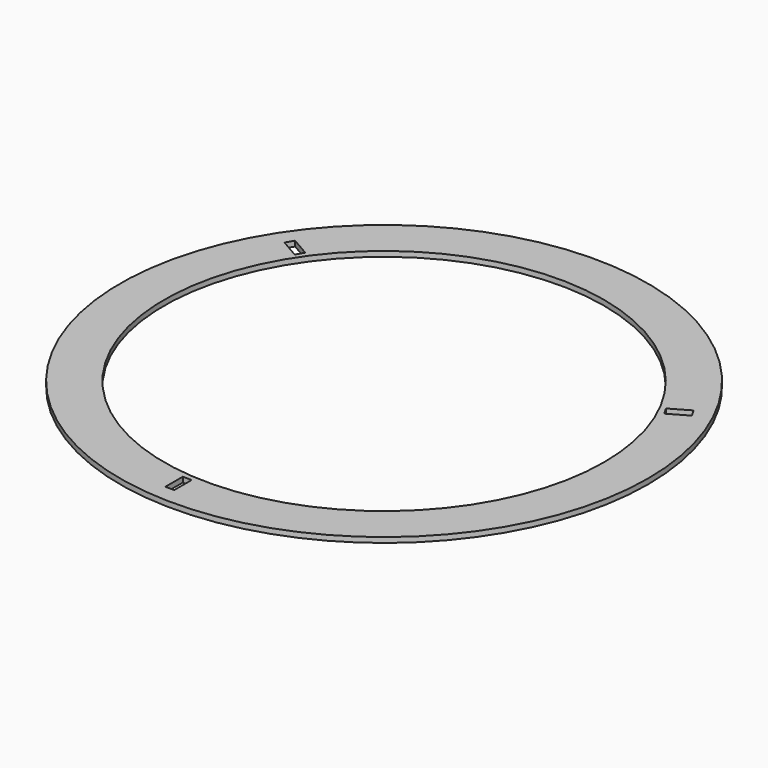
from build123d import *

# Parameters (mm, degrees)
F0_R     = 152.4
F0_R_2   = 127
F1_DEPTH = 3
F2_W     = 5.139328
F2_H     = 12.614713
F3_DEPTH = 25.4


with BuildPart() as f1:
    # F0 (on Top) → F1 (new body)
    with BuildSketch(Plane.XY):
        Circle(F0_R)
        Circle(F0_R_2, mode=Mode.SUBTRACT)
    extrude(amount=F1_DEPTH)

    # F2 (on face) → F3 (cut)
    with BuildSketch(Plane.XY.offset(3)):
        Polygon((-106.028961, 75.65495), (-116.953622, 81.962306), (-119.523286, 77.511517), (-108.598625, 71.204161), align=None)
        Polygon((118.533589, 53.996299), (129.45825, 60.303655), (126.888586, 64.754444), (115.963925, 58.447088), align=None)
        with Locations((-9.934964, -135.958604)):
            Rectangle(F2_W, F2_H)
    extrude(amount=-F3_DEPTH, mode=Mode.SUBTRACT)


solid = f1.part
